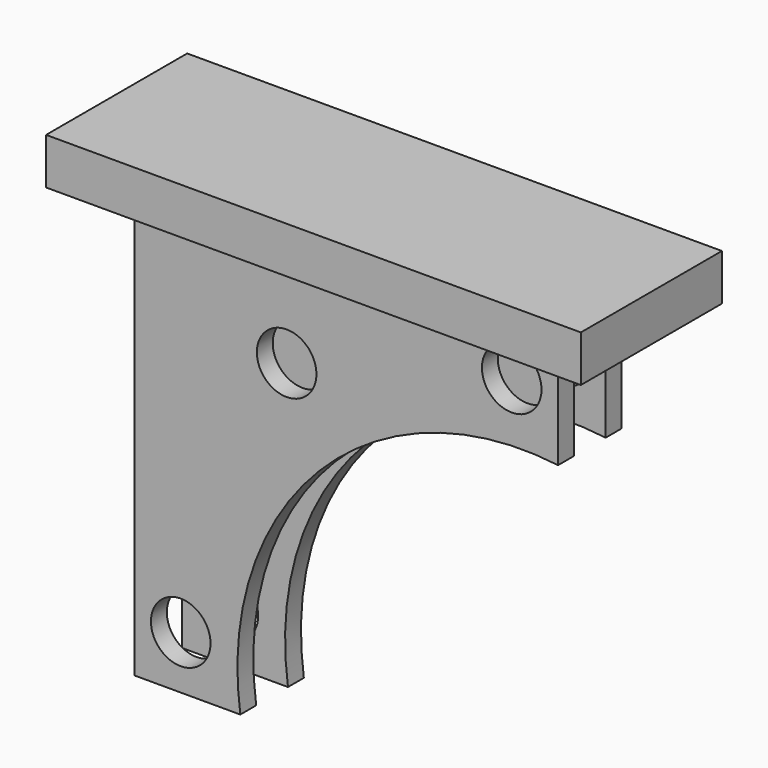
from build123d import *

# Parameters (mm, degrees)
F0_W     = 320
F0_H     = 60
F1_DEPTH = 360
F2_R     = 22.5
F3_DEPTH = 60
F5_DEPTH = 60
F6_W     = 403.911207
F6_H     = 133.211269
F6_W_2   = 320
F6_H_2   = 60
F7_DEPTH = 35
F8_W     = 30
F8_H     = 325
F9_DEPTH = 320


with BuildPart() as f1:
    # F0 (on Top) → F1 (new body)
    with BuildSketch(Plane.XY):
        with Locations((-160, -5.27027)):
            Rectangle(F0_W, F0_H)
    extrude(amount=F1_DEPTH)

    # F2 (on face) → F3 (cut, through all)
    with BuildSketch(Plane.XZ.offset(35.27027)):
        with Locations((-285, 40)):
            Circle(F2_R)
        with Locations((-35, 290)):
            Circle(F2_R)
        with Locations((-205, 245)):
            Circle(F2_R)
    extrude(amount=-F3_DEPTH, mode=Mode.SUBTRACT)

    # F4 (on face) → F5 (cut, through all)
    with BuildSketch(Plane.XZ.offset(35.27027)):
        Polygon((0, 243.859082), (-27.186546, 30.584865), (-240, 0), (0, 0), align=None)
        with BuildLine():
            Line((-240, 0), (-27.186546, 30.584865))
            Line((-27.186546, 30.584865), (0, 243.859082))
            ThreePointArc((0, 243.859082), (-180.42215, 181.395507), (-240, 0))
        make_face()
    extrude(amount=-F5_DEPTH, mode=Mode.SUBTRACT)

    # F6 (on face) → F7 (join)
    with BuildSketch(Plane.XY.offset(360)):
        with Locations((-158.057762, -2.021872)):
            Rectangle(F6_W, F6_H)
        with Locations((-160, -5.27027)):
            Rectangle(F6_W_2, F6_H_2, mode=Mode.SUBTRACT)
    extrude(amount=-F7_DEPTH)

    # F8 (on face) → F9 (cut, through all)
    with BuildSketch(Plane.YZ):
        with Locations((-5.27027, 162.5)):
            Rectangle(F8_W, F8_H)
        with Locations((-5.27027, 162.5)):
            Rectangle(F8_W, F8_H)
    extrude(amount=-F9_DEPTH, mode=Mode.SUBTRACT)


solid = f1.part
